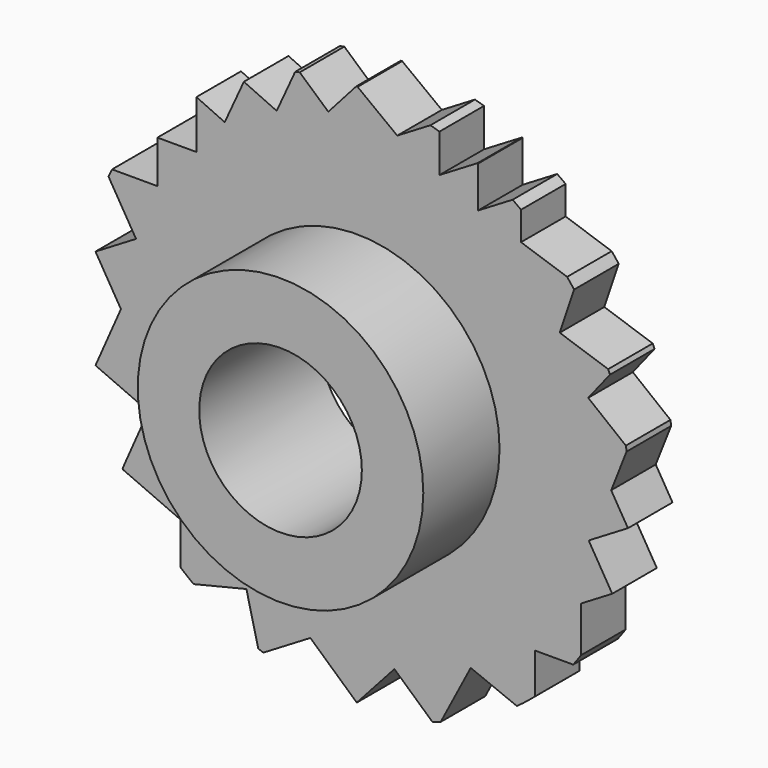
from build123d import *

# Parameters (mm, degrees)
F0_R     = 47.222118
F0_R_2   = 26.321979
F0_R_3   = 14.082834
F1_DEPTH = 9.652
F2_R     = 24.729886
F2_R_2   = 14.082834
F3_DEPTH = 16.51
F5_DEPTH = 58.166


with BuildPart() as f1:
    # F0 (on Front) → F1 (new body)
    with BuildSketch(Plane.XZ):
        Circle(F0_R)
        Circle(F0_R_2, mode=Mode.SUBTRACT)
        Circle(F0_R_2)
        Circle(F0_R_3, mode=Mode.SUBTRACT)
    extrude(amount=F1_DEPTH)

    # F2 (on face) → F3 (join)
    with BuildSketch(Plane.XZ.offset(9.652)):
        Circle(F2_R)
        Circle(F2_R_2, mode=Mode.SUBTRACT)
    extrude(amount=F3_DEPTH)

    # F4 (on Front) → F5 (intersect)
    with BuildSketch(Plane.XZ):
        Polygon((7.006876, 42.021585), (0, 47.32769), (-4.933179, 41.77786), (-10.38732, 46.625983), (-13.874567, 39.002948), (-19.557085, 41.602482), (-22.87385, 34.352116), (-27.775111, 36.594255), (-27.775111, 28.21162), (-34.532256, 28.21162), (-34.532256, 20.81185), (-43.781966, 20.81185), (-38.23214, 11.562139), (-45.260107, 7.34536), (-40.852892, 0), (-45.260107, -10.020521), (-36.106034, -14.046655), (-40.616142, -24.30112), (-30.542885, -28.731529), (-30.542885, -38.3863), (-19.11607, -35.611387), (-16.889893, -44.778563), (-8.043921, -39.47098), (0, -46.711039), (6.51653, -39.47098), (13.908958, -46.124652), (19.732716, -34.99474), (30.832369, -39.47098), (30.832369, -28.731529), (38.848784, -28.731529), (38.848784, -18.961906), (44.244453, -15.724506), (40.163699, -8.923248), (46.964957, -4.842494), (44.059461, 0), (46.964957, 7.34536), (40.082078, 12.795433), (44.244453, 18.052081), (35.1489, 21.120174), (37.983977, 29.524937), (28.44544, 32.742457), (28.44544, 39.619595), (20.996165, 35.150031), (20.996165, 42.394508), (14.308761, 38.382066), (14.308761, 46.402715), align=None)
    extrude(amount=F5_DEPTH, mode=Mode.INTERSECT)


solid = f1.part
